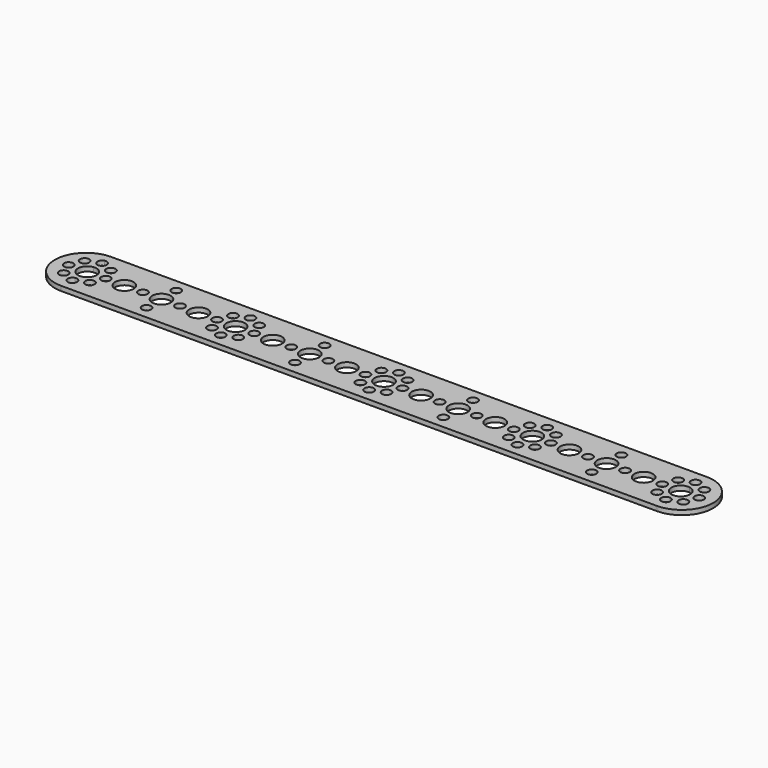
from build123d import *

# Parameters (mm, degrees)
F0_R     = 2
F0_R_2   = 4
F1_DEPTH = 2


with BuildPart() as f1:
    # F0 (on Top) → F1 (new body)
    with BuildSketch(Plane.XY):
        with BuildLine():
            Line((128.5, 9.936492), (128.5, 13.5))
            Line((128.5, 13.5), (-128.5, 13.5))
            Line((-128.5, 13.5), (-128.5, 9.936492))
            ThreePointArc((-128.5, 9.936492), (-126.775255, 9.581139), (-126, 8))
            ThreePointArc((-126, 8), (-126.775255, 6.418861), (-128.5, 6.063508))
            Line((-128.5, 6.063508), (-128.5, 3.968627))
            ThreePointArc((-128.5, 3.968627), (-125.354249, 3), (-124, 0))
            ThreePointArc((-124, 0), (-125.354249, -3), (-128.5, -3.968627))
            Line((-128.5, -3.968627), (-128.5, -6.063508))
            ThreePointArc((-128.5, -6.063508), (-126.775255, -6.418861), (-126, -8))
            ThreePointArc((-126, -8), (-126.775255, -9.581139), (-128.5, -9.936492))
            Line((-128.5, -9.936492), (-128.5, -13.5))
            Line((-128.5, -13.5), (128.5, -13.5))
            Line((128.5, -13.5), (128.5, -9.936492))
            ThreePointArc((128.5, -9.936492), (126, -8), (128.5, -6.063508))
            Line((128.5, -6.063508), (128.5, -3.968627))
            ThreePointArc((128.5, -3.968627), (124, 0), (128.5, 3.968627))
            Line((128.5, 3.968627), (128.5, 6.063508))
            ThreePointArc((128.5, 6.063508), (126, 8), (128.5, 9.936492))
        make_face()
        with Locations((-96, -8)):
            Circle(F0_R, mode=Mode.SUBTRACT)
        with Locations((-64, -8)):
            Circle(F0_R, mode=Mode.SUBTRACT)
        with Locations((-32, -8)):
            Circle(F0_R, mode=Mode.SUBTRACT)
        with Locations((-122.343146, -5.656854)):
            Circle(F0_R, mode=Mode.SUBTRACT)
        with Locations((-69.656854, -5.656854)):
            Circle(F0_R, mode=Mode.SUBTRACT)
        with Locations((-58.343146, -5.656854)):
            Circle(F0_R, mode=Mode.SUBTRACT)
        with Locations((-5.656854, -5.656854)):
            Circle(F0_R, mode=Mode.SUBTRACT)
        with Locations((0, -8)):
            Circle(F0_R, mode=Mode.SUBTRACT)
        with Locations((32, -8)):
            Circle(F0_R, mode=Mode.SUBTRACT)
        with Locations((64, -8)):
            Circle(F0_R, mode=Mode.SUBTRACT)
        with Locations((96, -8)):
            Circle(F0_R, mode=Mode.SUBTRACT)
        with Locations((5.656854, -5.656854)):
            Circle(F0_R, mode=Mode.SUBTRACT)
        with Locations((58.343146, -5.656854)):
            Circle(F0_R, mode=Mode.SUBTRACT)
        with Locations((69.656854, -5.656854)):
            Circle(F0_R, mode=Mode.SUBTRACT)
        with Locations((122.343146, -5.656854)):
            Circle(F0_R, mode=Mode.SUBTRACT)
        with Locations((-120, 0)):
            Circle(F0_R, mode=Mode.SUBTRACT)
        with Locations((-112, 0)):
            Circle(F0_R_2, mode=Mode.SUBTRACT)
        with Locations((-104, 0)):
            Circle(F0_R, mode=Mode.SUBTRACT)
        with Locations((-96, 0)):
            Circle(F0_R_2, mode=Mode.SUBTRACT)
        with Locations((-88, 0)):
            Circle(F0_R, mode=Mode.SUBTRACT)
        with Locations((-80, 0)):
            Circle(F0_R_2, mode=Mode.SUBTRACT)
        with Locations((-72, 0)):
            Circle(F0_R, mode=Mode.SUBTRACT)
        with Locations((-122.343146, 5.656854)):
            Circle(F0_R, mode=Mode.SUBTRACT)
        with Locations((-64, 0)):
            Circle(F0_R_2, mode=Mode.SUBTRACT)
        with Locations((-56, 0)):
            Circle(F0_R, mode=Mode.SUBTRACT)
        with Locations((-48, 0)):
            Circle(F0_R_2, mode=Mode.SUBTRACT)
        with Locations((-40, 0)):
            Circle(F0_R, mode=Mode.SUBTRACT)
        with Locations((-32, 0)):
            Circle(F0_R_2, mode=Mode.SUBTRACT)
        with Locations((-24, 0)):
            Circle(F0_R, mode=Mode.SUBTRACT)
        with Locations((-16, 0)):
            Circle(F0_R_2, mode=Mode.SUBTRACT)
        with Locations((-8, 0)):
            Circle(F0_R, mode=Mode.SUBTRACT)
        with Locations((-69.656854, 5.656854)):
            Circle(F0_R, mode=Mode.SUBTRACT)
        with Locations((-58.343146, 5.656854)):
            Circle(F0_R, mode=Mode.SUBTRACT)
        with Locations((-5.656854, 5.656854)):
            Circle(F0_R, mode=Mode.SUBTRACT)
        with Locations((-96, 8)):
            Circle(F0_R, mode=Mode.SUBTRACT)
        with Locations((-64, 8)):
            Circle(F0_R, mode=Mode.SUBTRACT)
        with Locations((-32, 8)):
            Circle(F0_R, mode=Mode.SUBTRACT)
        Circle(F0_R_2, mode=Mode.SUBTRACT)
        with Locations((8, 0)):
            Circle(F0_R, mode=Mode.SUBTRACT)
        with Locations((16, 0)):
            Circle(F0_R_2, mode=Mode.SUBTRACT)
        with Locations((24, 0)):
            Circle(F0_R, mode=Mode.SUBTRACT)
        with Locations((32, 0)):
            Circle(F0_R_2, mode=Mode.SUBTRACT)
        with Locations((40, 0)):
            Circle(F0_R, mode=Mode.SUBTRACT)
        with Locations((48, 0)):
            Circle(F0_R_2, mode=Mode.SUBTRACT)
        with Locations((56, 0)):
            Circle(F0_R, mode=Mode.SUBTRACT)
        with Locations((64, 0)):
            Circle(F0_R_2, mode=Mode.SUBTRACT)
        with Locations((5.656854, 5.656854)):
            Circle(F0_R, mode=Mode.SUBTRACT)
        with Locations((58.343146, 5.656854)):
            Circle(F0_R, mode=Mode.SUBTRACT)
        with Locations((69.656854, 5.656854)):
            Circle(F0_R, mode=Mode.SUBTRACT)
        with Locations((72, 0)):
            Circle(F0_R, mode=Mode.SUBTRACT)
        with Locations((80, 0)):
            Circle(F0_R_2, mode=Mode.SUBTRACT)
        with Locations((88, 0)):
            Circle(F0_R, mode=Mode.SUBTRACT)
        with Locations((96, 0)):
            Circle(F0_R_2, mode=Mode.SUBTRACT)
        with Locations((104, 0)):
            Circle(F0_R, mode=Mode.SUBTRACT)
        with Locations((112, 0)):
            Circle(F0_R_2, mode=Mode.SUBTRACT)
        with Locations((120, 0)):
            Circle(F0_R, mode=Mode.SUBTRACT)
        with Locations((122.343146, 5.656854)):
            Circle(F0_R, mode=Mode.SUBTRACT)
        with Locations((0, 8)):
            Circle(F0_R, mode=Mode.SUBTRACT)
        with Locations((32, 8)):
            Circle(F0_R, mode=Mode.SUBTRACT)
        with Locations((64, 8)):
            Circle(F0_R, mode=Mode.SUBTRACT)
        with Locations((96, 8)):
            Circle(F0_R, mode=Mode.SUBTRACT)
        with BuildLine():
            Line((-128.5, 9.936492), (-128.5, 13.5))
            ThreePointArc((-128.5, 13.5), (-142, 0), (-128.5, -13.5))
            Line((-128.5, -13.5), (-128.5, -9.936492))
            ThreePointArc((-128.5, -9.936492), (-130, -8), (-128.5, -6.063508))
            Line((-128.5, -6.063508), (-128.5, -3.968627))
            ThreePointArc((-128.5, -3.968627), (-132, 0), (-128.5, 3.968627))
            Line((-128.5, 3.968627), (-128.5, 6.063508))
            ThreePointArc((-128.5, 6.063508), (-130, 8), (-128.5, 9.936492))
        make_face()
        with Locations((-133.656854, -5.656854)):
            Circle(F0_R, mode=Mode.SUBTRACT)
        with Locations((-136, 0)):
            Circle(F0_R, mode=Mode.SUBTRACT)
        with Locations((-133.656854, 5.656854)):
            Circle(F0_R, mode=Mode.SUBTRACT)
        with BuildLine():
            ThreePointArc((128.5, -13.5), (142, 0), (128.5, 13.5))
            Line((128.5, 13.5), (128.5, 9.936492))
            ThreePointArc((128.5, 9.936492), (129.581139, 9.224745), (130, 8))
            ThreePointArc((130, 8), (129.581139, 6.775255), (128.5, 6.063508))
            Line((128.5, 6.063508), (128.5, 3.968627))
            ThreePointArc((128.5, 3.968627), (131, 2.645751), (132, 0))
            ThreePointArc((132, 0), (131, -2.645751), (128.5, -3.968627))
            Line((128.5, -3.968627), (128.5, -6.063508))
            ThreePointArc((128.5, -6.063508), (129.581139, -6.775255), (130, -8))
            ThreePointArc((130, -8), (129.581139, -9.224745), (128.5, -9.936492))
            Line((128.5, -9.936492), (128.5, -13.5))
        make_face()
        with Locations((133.656854, -5.656854)):
            Circle(F0_R, mode=Mode.SUBTRACT)
        with Locations((136, 0)):
            Circle(F0_R, mode=Mode.SUBTRACT)
        with Locations((133.656854, 5.656854)):
            Circle(F0_R, mode=Mode.SUBTRACT)
    extrude(amount=F1_DEPTH)


solid = f1.part
